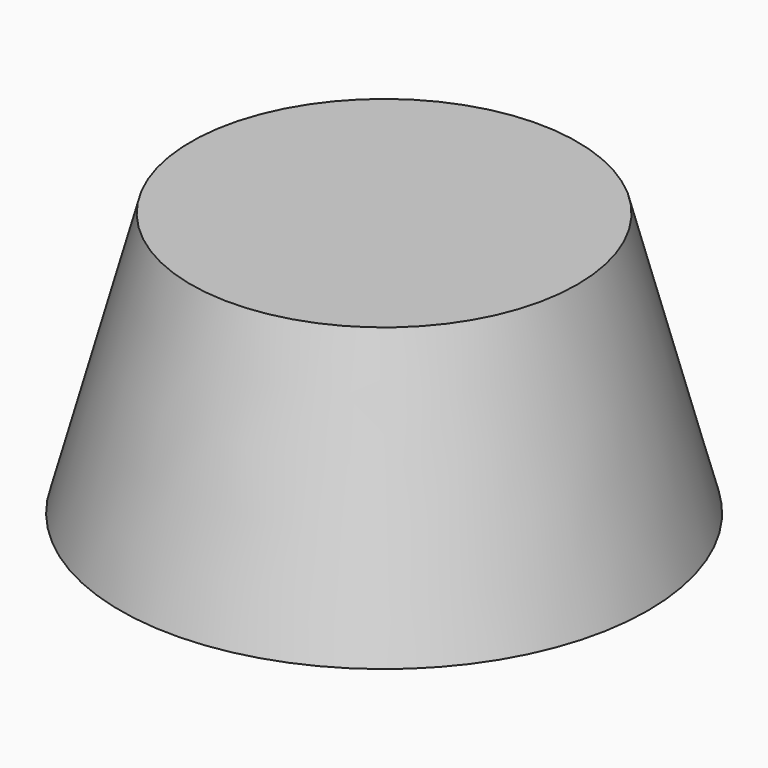
from build123d import *

# Parameters (mm, degrees)
SKETCH_R        = 25
PAD_DEPTH       = 25
PAD_TAPER       = 15
SKETCH001_R     = 20.195
POCKET_DEPTH    = 20
POCKET_TAPER    = 15
SKETCH002_R     = 10
PAD001_DEPTH    = 20
PAD001_TAPER    = 18
SKETCH003_R     = 1.75
POCKET001_DEPTH = 17


with BuildPart() as part:
    # Sketch → Pad (new body)
    with BuildSketch(Plane.XY):
        Circle(SKETCH_R)
    extrude(amount=PAD_DEPTH, taper=PAD_TAPER)

    # Sketch001 (on Face2 of Pad) → Pocket (cut)
    with BuildSketch(Plane(origin=(0, 0, 0), x_dir=(1, 0, 0), z_dir=(0, 0, -1))):
        Circle(SKETCH001_R)
    extrude(amount=-POCKET_DEPTH, taper=POCKET_TAPER, mode=Mode.SUBTRACT)

    # Sketch002 (on Face5 of Pocket) → Pad001 (join)
    with BuildSketch(Plane(origin=(0, 0, 20), x_dir=(1, 0, 0), z_dir=(0, 0, -1))):
        Circle(SKETCH002_R)
    extrude(amount=PAD001_DEPTH, taper=PAD001_TAPER)

    # Sketch003 (on Face7 of Pad001) → Pocket001 (cut)
    with BuildSketch(Plane(origin=(0, 0, 0), x_dir=(1, 0, 0), z_dir=(0, 0, -1))):
        Circle(SKETCH003_R)
    extrude(amount=-POCKET001_DEPTH, mode=Mode.SUBTRACT)


solid = part.part
